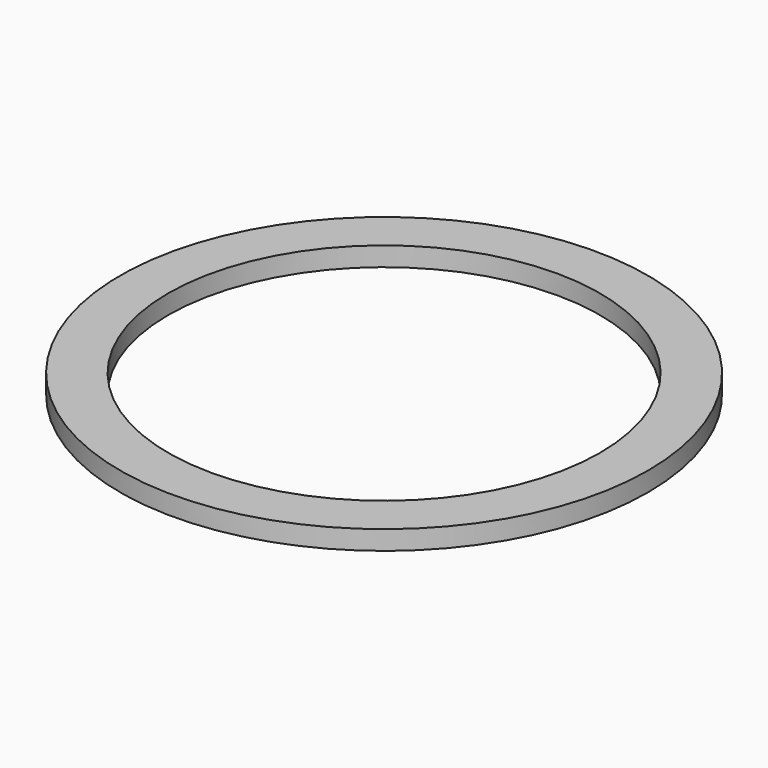
from build123d import *

# Parameters (mm, degrees)
SKETCH_R   = 27.5
SKETCH_R_2 = 22.5
PAD_DEPTH  = 2


with BuildPart() as part:
    # Sketch → Pad (new body)
    with BuildSketch(Plane.XY):
        Circle(SKETCH_R)
        Circle(SKETCH_R_2, mode=Mode.SUBTRACT)
    extrude(amount=PAD_DEPTH)


solid = part.part
